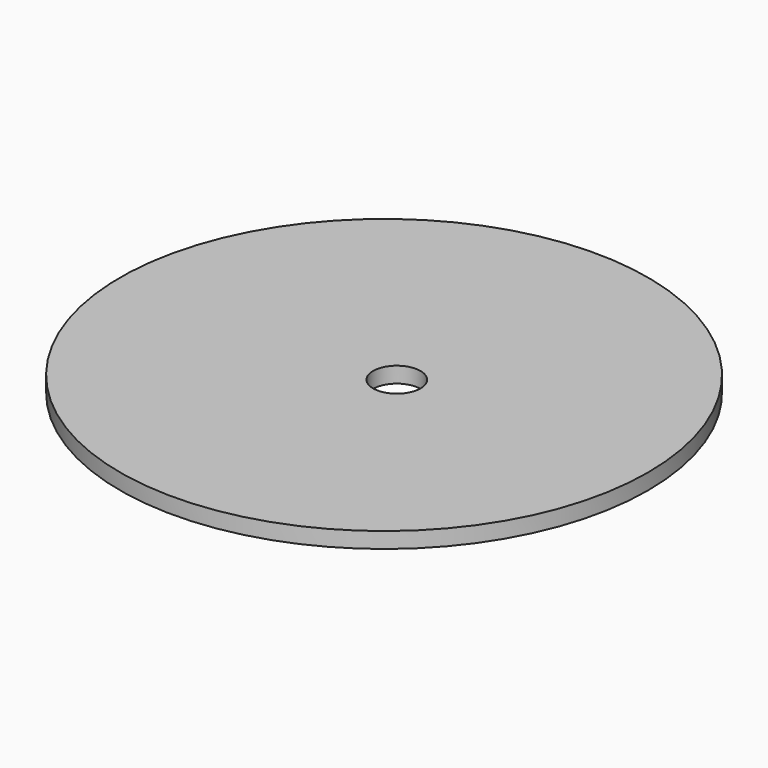
from build123d import *

# Parameters (mm, degrees)
F0_R     = 50.1
F0_R_2   = 4.5
F1_DEPTH = 3


with BuildPart() as f1:
    # F0 (on Top) → F1 (new body)
    with BuildSketch(Plane.XY):
        with Locations((-2.412923, 0)):
            Circle(F0_R)
        Circle(F0_R_2, mode=Mode.SUBTRACT)
    extrude(amount=F1_DEPTH)


solid = f1.part
